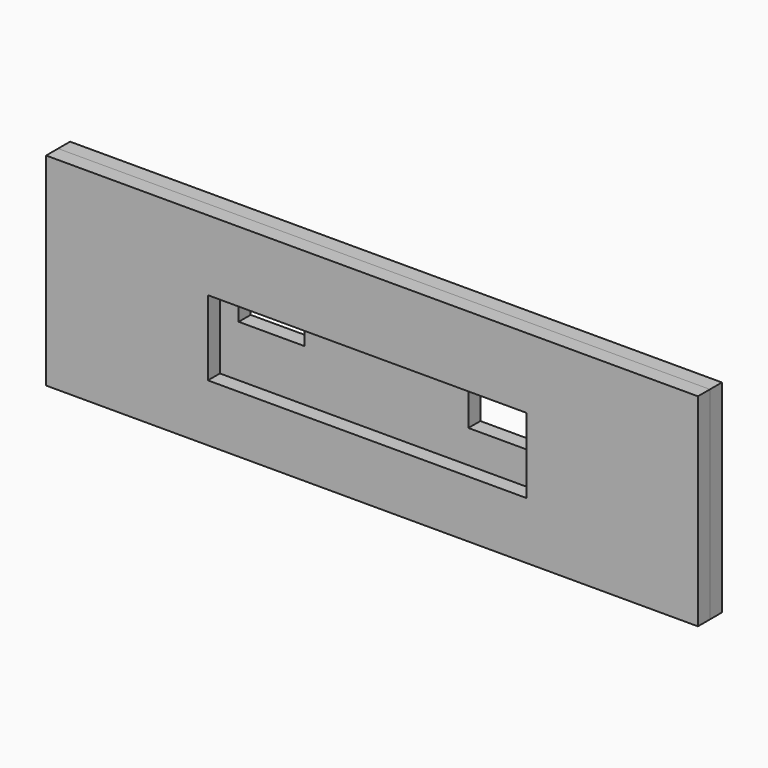
from build123d import *

# Parameters (mm, degrees)
F0_W     = 110.363
F0_H     = 34.29
F0_W_2   = 11.1125
F0_H_2   = 7.9375
F0_W_3   = 16.66875
F0_H_3   = 14.2875
F1_DEPTH = 2.54
F2_W     = 110.363
F2_H     = 34.29
F2_W_2   = 53.975
F2_H_2   = 12.7
F3_DEPTH = 2.54


with BuildPart() as f1:
    # F0 (on Front) → F1 (new body)
    with BuildSketch(Plane.XZ):
        Rectangle(F0_W, F0_H)
        with Locations((-19.05, 5.23875)):
            Rectangle(F0_W_2, F0_H_2, mode=Mode.SUBTRACT)
        with Locations((22.621875, 5.23875)):
            Rectangle(F0_W_3, F0_H_3, mode=Mode.SUBTRACT)
    extrude(amount=F1_DEPTH)


with BuildPart() as f3:
    # F2 (on face) → F3 (new body)
    with BuildSketch(Plane.XZ.offset(2.54)):
        Rectangle(F2_W, F2_H)
        with Locations((-0.79375, -1.11125)):
            Rectangle(F2_W_2, F2_H_2, mode=Mode.SUBTRACT)
    extrude(amount=F3_DEPTH)


solid = Compound([f1.part, f3.part])
